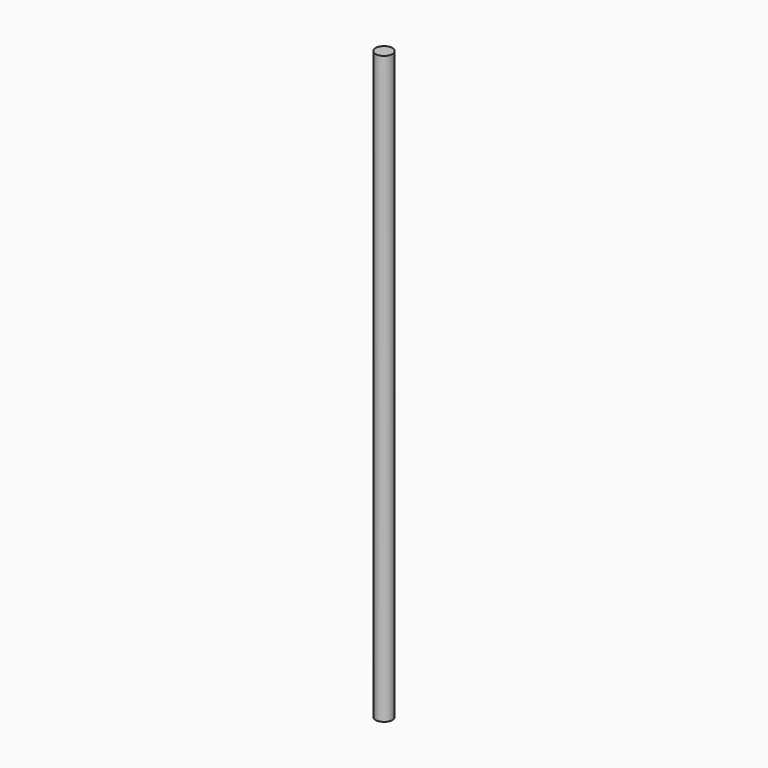
from build123d import *

# Parameters (mm, degrees)
CYLINDER_R     = 4
CYLINDER_DEPTH = 280


with BuildPart() as part:
    # Cylinder → Cylinder (new body)
    with BuildSketch(Plane.XY):
        Circle(CYLINDER_R)
    extrude(amount=CYLINDER_DEPTH)


solid = part.part
